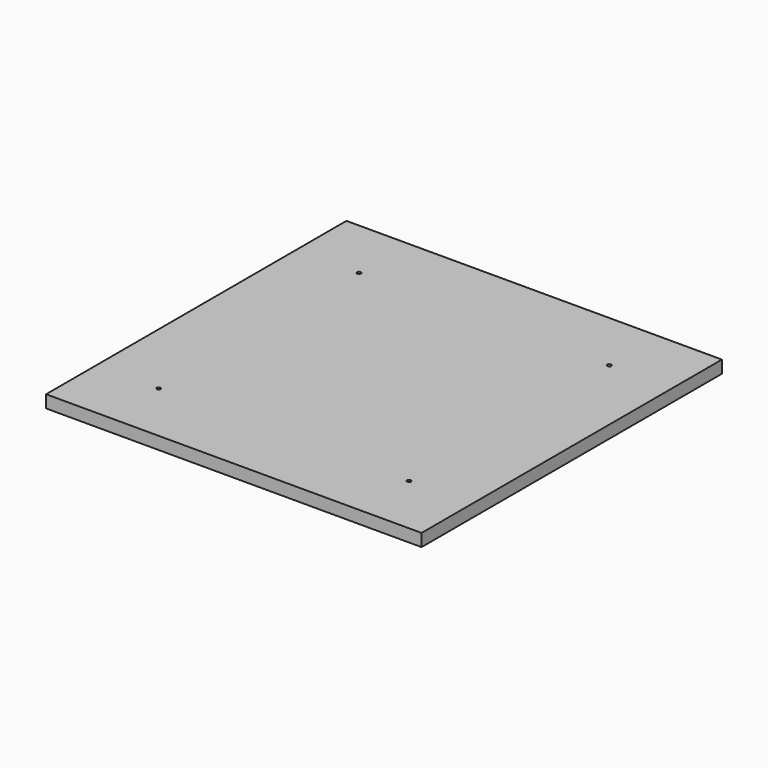
from build123d import *

# Parameters (mm, degrees)
F0_W     = 762
F0_H     = 25.4
F1_DEPTH = 762
F3_D     = 7.9375


with BuildPart() as f1:
    # F0 (on Front) → F1 (new body)
    with BuildSketch(Plane.XZ):
        with Locations((381, 12.7)):
            Rectangle(F0_W, F0_H)
    extrude(amount=-F1_DEPTH)

    # F3 (through all)
    with Locations(Plane.XY.offset(25.4)):
        with Locations((635, 127), (635, 635), (127, 127), (127, 635)):
            Hole(F3_D / 2)


solid = f1.part
